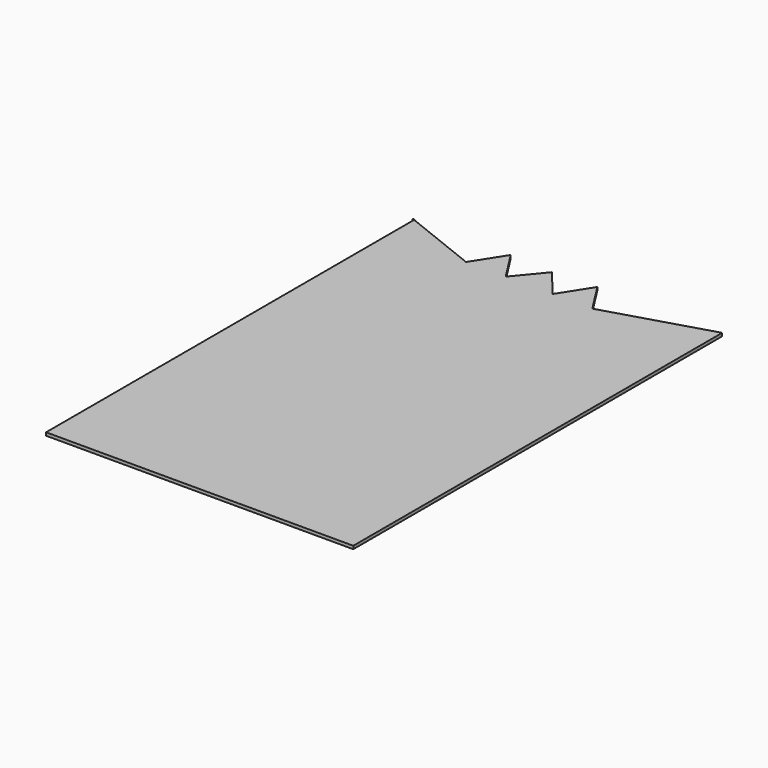
from build123d import *

# Parameters (mm, degrees)
F1_DEPTH = 1


with BuildPart() as f1:
    # F0 (on Top) → F1 (new body)
    with BuildSketch(Plane.XY):
        Polygon((-28.203126, 56.636945), (-53.001562, 66.493575), (-53.001562, -83.246687), (46.998438, -83.246687), (46.998438, 66.753313), (46.625555, 66.753313), (12.908772, 56.636945), (6.454386, 66.753313), (0, 56.636945), (-7.647177, 65.884685), (-15.294354, 56.636945), (-21.74874, 66.753313), align=None)
        Polygon((-53.001562, 66.493575), (-53.001562, 66.753313), (-53.655041, 66.753313), align=None)
    extrude(amount=F1_DEPTH)


solid = f1.part
